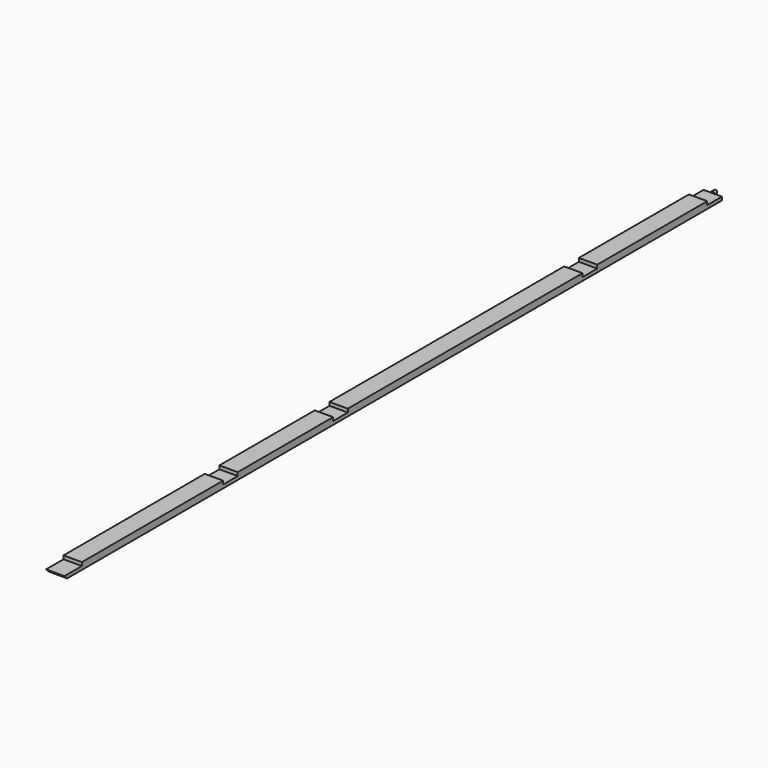
from build123d import *

# Parameters (mm, degrees)
F1_DEPTH = 25.4
F3_R     = 4.7625
F4_DEPTH = 9.525


with BuildPart() as f1:
    # F0 (on Right) → F1 (new body, symmetric)
    with BuildSketch(Plane.YZ):
        Polygon((-33.290768, -9.525), (2133.6, -9.525), (2133.6, 0), (2082.8, 0), (2082.8, 9.525), (1701.8, 9.525), (1701.8, 0), (1651, 0), (1651, 9.525), (838.2, 9.525), (838.2, 0), (787.4, 0), (787.4, 9.525), (457.2, 9.525), (457.2, 0), (406.4, 0), (406.4, 9.525), (0, 9.525), (-82.55, 9.525), (-82.55, 0), (-142.875, 0), (-133.35, -9.525), align=None)
    extrude(amount=F1_DEPTH, both=True)

    # F3 (on offset) → F4 (join)
    with BuildSketch(Plane.XZ.offset(-2133.6)):
        Circle(F3_R)
    extrude(amount=-F4_DEPTH)


solid = f1.part
